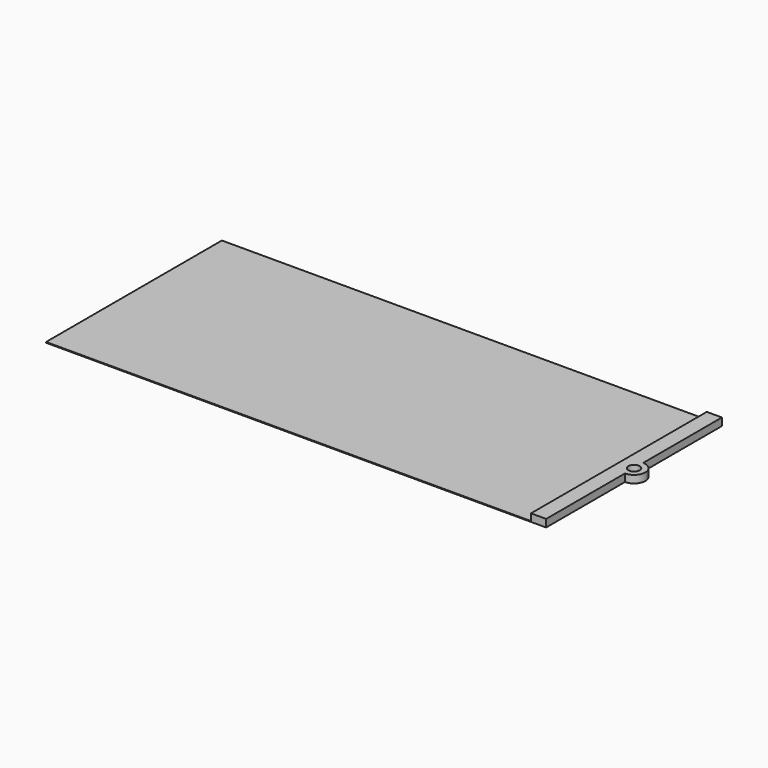
from build123d import *

# Parameters (mm, degrees)
F0_R     = 9.525
F1_DEPTH = 12.7
F2_W     = 812.8
F2_H     = 368.3
F3_DEPTH = 1.27


with BuildPart() as f1:
    # F0 (on Top) → F1 (new body)
    with BuildSketch(Plane.XY):
        with BuildLine():
            Line((-157.734471, -102.348973), (-132.334471, -102.348973))
            Line((-132.334471, -102.348973), (-132.334471, 62.751027))
            ThreePointArc((-132.334471, 62.751027), (-113.284471, 81.801027), (-132.334471, 100.851027))
            Line((-132.334471, 100.851027), (-132.334471, 265.951027))
            Line((-132.334471, 265.951027), (-157.734471, 265.951027))
            Line((-157.734471, 265.951027), (-157.734471, -102.348973))
        make_face()
        with Locations((-132.334471, 81.801027)):
            Circle(F0_R, mode=Mode.SUBTRACT)
    extrude(amount=F1_DEPTH)

    # F2 (on Top) → F3 (join)
    with BuildSketch(Plane.XY):
        with Locations((-564.134471, 81.801027)):
            Rectangle(F2_W, F2_H)
    extrude(amount=F3_DEPTH)


solid = f1.part
